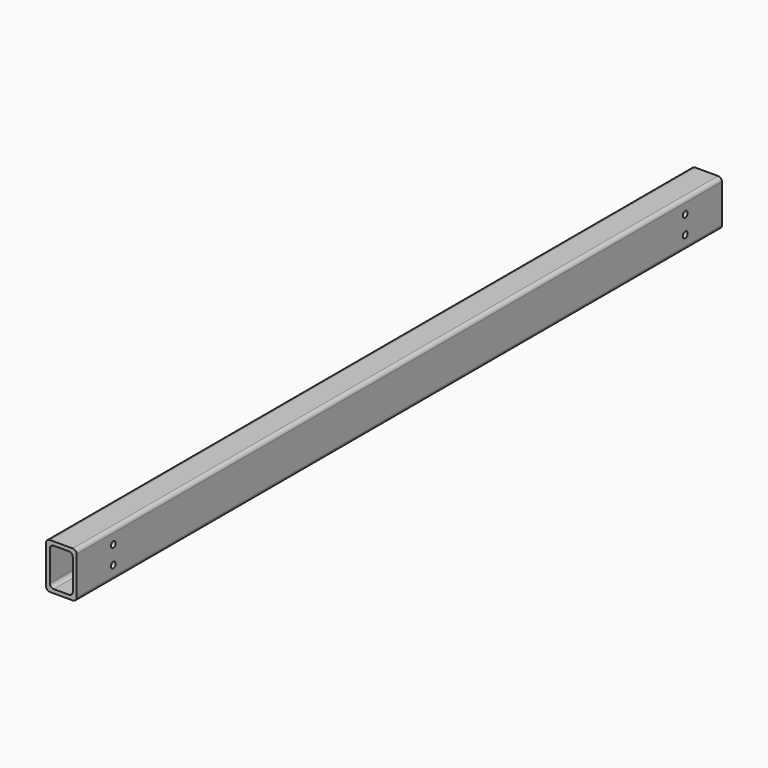
from build123d import *

# Parameters (mm, degrees)
F1_DEPTH = 1341.467
F2_R     = 5
F3_DEPTH = 50.801


with BuildPart() as f1:
    # F0 (on Front) → F1 (new body)
    with BuildSketch(Plane.XZ):
        with BuildLine():
            Line((-1.995114, 38.239733), (-40.095114, 38.239733))
            ThreePointArc((-40.095114, 38.239733), (-44.585242, 36.379861), (-46.445114, 31.889733))
            Line((-46.445114, 31.889733), (-46.445114, -31.610267))
            ThreePointArc((-46.445114, -31.610267), (-44.585242, -36.100395), (-40.095114, -37.960267))
            Line((-40.095114, -37.960267), (-1.995114, -37.960267))
            ThreePointArc((-1.995114, -37.960267), (2.495014, -36.100395), (4.354886, -31.610267))
            Line((4.354886, -31.610267), (4.354886, 31.889733))
            ThreePointArc((4.354886, 31.889733), (2.495014, 36.379861), (-1.995114, 38.239733))
        make_face()
        with BuildLine():
            ThreePointArc((-40.095114, 25.539733), (-38.235242, 30.029861), (-33.745114, 31.889733))
            Line((-33.745114, 31.889733), (-8.345114, 31.889733))
            ThreePointArc((-8.345114, 31.889733), (-3.854986, 30.029861), (-1.995114, 25.539733))
            Line((-1.995114, 25.539733), (-1.995114, -25.260267))
            ThreePointArc((-1.995114, -25.260267), (-3.854986, -29.750395), (-8.345114, -31.610267))
            Line((-8.345114, -31.610267), (-33.745114, -31.610267))
            ThreePointArc((-33.745114, -31.610267), (-38.235242, -29.750395), (-40.095114, -25.260267))
            Line((-40.095114, -25.260267), (-40.095114, 25.539733))
        make_face(mode=Mode.SUBTRACT)
    extrude(amount=F1_DEPTH)

    # F2 (on face) → F3 (cut, through all)
    with BuildSketch(Plane.YZ.offset(4.354886)):
        with Locations((-76.2, 15.139733)):
            Circle(F2_R)
        with Locations((-76.2, -14.860267)):
            Circle(F2_R)
        with Locations((-1265.267, -14.860267)):
            Circle(F2_R)
        with Locations((-1265.267, 15.139733)):
            Circle(F2_R)
    extrude(amount=-F3_DEPTH, mode=Mode.SUBTRACT)


solid = f1.part
